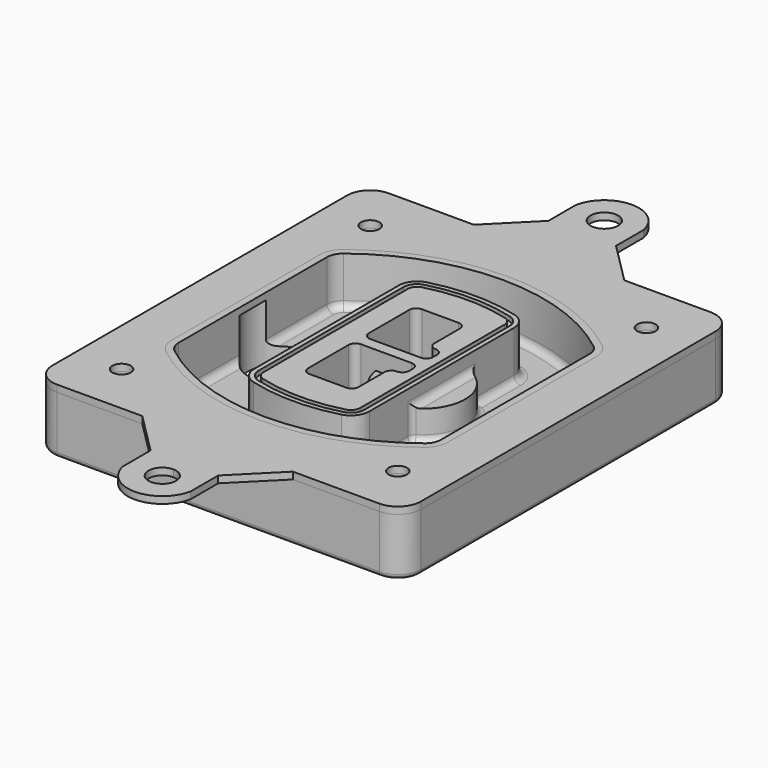
from build123d import *

# Parameters (mm, degrees)
F0_R      = 4
F1_DEPTH  = 25
F2_DEPTH  = 3
F3_DEPTH  = 18
F5_DEPTH  = 21
F6_DEPTH  = 2
F8_DEPTH  = 20
F9_DEPTH  = 16
F10_DEPTH = 25
F7_R      = 6
F7_R_2    = 4
F11_DEPTH = 6
F13_DEPTH = 9
F14_R     = 3
F15_R     = 2
F16_R     = 4
F17_DEPTH = 3


with BuildPart() as f1:
    # F0 (on Top) → F1 (new body)
    with BuildSketch(Plane.XY):
        with BuildLine():
            ThreePointArc((-80, -80), (-77.0710678119, -87.0710678119), (-70, -90))
            Line((-70, -90), (70, -90))
            ThreePointArc((70, -90), (77.0710678119, -87.0710678119), (80, -80))
            Line((80, -80), (80, 80))
            ThreePointArc((80, 80), (77.0710678119, 87.0710678119), (70, 90))
            Line((70, 90), (-70, 90))
            ThreePointArc((-70, 90), (-77.0710678119, 87.0710678119), (-80, 80))
            Line((-80, 80), (-80, -80))
        make_face()
        with Locations((-60, -67.5)):
            Circle(F0_R, mode=Mode.SUBTRACT)
        with Locations((60, -67.5)):
            Circle(F0_R, mode=Mode.SUBTRACT)
        with Locations((-60, 67.5)):
            Circle(F0_R, mode=Mode.SUBTRACT)
        with BuildLine():
            ThreePointArc((-64, 40.2934422872), (-62.5820384798, 46.4328484224), (-58.6153846154, 51.3286200352))
            ThreePointArc((-58.6153846154, 51.3286200352), (0, 71.5), (58.6153846154, 51.3286200352))
            ThreePointArc((58.6153846154, 51.3286200352), (62.5820384798, 46.4328484224), (64, 40.2934422872))
            Line((64, 40.2934422872), (64, -40.2934422872))
            ThreePointArc((64, -40.2934422872), (62.5820384798, -46.4328484224), (58.6153846154, -51.3286200352))
            ThreePointArc((58.6153846154, -51.3286200352), (0, -71.5), (-58.6153846154, -51.3286200352))
            ThreePointArc((-58.6153846154, -51.3286200352), (-62.5820384798, -46.4328484224), (-64, -40.2934422872))
            Line((-64, -40.2934422872), (-64, 40.2934422872))
        make_face(mode=Mode.SUBTRACT)
        with Locations((60, 67.5)):
            Circle(F0_R, mode=Mode.SUBTRACT)
        with BuildLine():
            ThreePointArc((58.6153846154, 51.3286200352), (0, 71.5), (-58.6153846154, 51.3286200352))
            ThreePointArc((-58.6153846154, 51.3286200352), (-62.5820384798, 46.4328484224), (-64, 40.2934422872))
            Line((-64, 40.2934422872), (-64, -40.2934422872))
            ThreePointArc((-64, -40.2934422872), (-62.5820384798, -46.4328484224), (-58.6153846154, -51.3286200352))
            ThreePointArc((-58.6153846154, -51.3286200352), (0, -71.5), (58.6153846154, -51.3286200352))
            ThreePointArc((58.6153846154, -51.3286200352), (62.5820384798, -46.4328484224), (64, -40.2934422872))
            Line((64, -40.2934422872), (64, 40.2934422872))
            ThreePointArc((64, 40.2934422872), (62.5820384798, 46.4328484224), (58.6153846154, 51.3286200352))
        make_face()
        with BuildLine():
            Line((-60, -40.2934422872), (-60, 40.2934422872))
            ThreePointArc((-60, 40.2934422872), (-58.9871703427, 44.6787323838), (-56.1538461538, 48.1757121072))
            ThreePointArc((-56.1538461538, 48.1757121072), (0, 67.5), (56.1538461538, 48.1757121072))
            ThreePointArc((56.1538461538, 48.1757121072), (58.9871703427, 44.6787323838), (60, 40.2934422872))
            Line((60, 40.2934422872), (60, -40.2934422872))
            ThreePointArc((60, -40.2934422872), (58.9871703427, -44.6787323838), (56.1538461538, -48.1757121072))
            ThreePointArc((56.1538461538, -48.1757121072), (0, -67.5), (-56.1538461538, -48.1757121072))
            ThreePointArc((-56.1538461538, -48.1757121072), (-58.9871703427, -44.6787323838), (-60, -40.2934422872))
        make_face(mode=Mode.SUBTRACT)
        with BuildLine():
            ThreePointArc((-56.1538461538, 48.1757121072), (-58.9871703427, 44.6787323838), (-60, 40.2934422872))
            Line((-60, 40.2934422872), (-60, -40.2934422872))
            ThreePointArc((-60, -40.2934422872), (-58.9871703427, -44.6787323838), (-56.1538461538, -48.1757121072))
            ThreePointArc((-56.1538461538, -48.1757121072), (0, -67.5), (56.1538461538, -48.1757121072))
            ThreePointArc((56.1538461538, -48.1757121072), (58.9871703427, -44.6787323838), (60, -40.2934422872))
            Line((60, -40.2934422872), (60, 40.2934422872))
            ThreePointArc((60, 40.2934422872), (58.9871703427, 44.6787323838), (56.1538461538, 48.1757121072))
            ThreePointArc((56.1538461538, 48.1757121072), (0, 67.5), (-56.1538461538, 48.1757121072))
        make_face()
        with BuildLine():
            ThreePointArc((54.3076923077, 45.8110311612), (56.2910192399, 43.3631453548), (57, 40.2934422872))
            Line((57, 40.2934422872), (57, -40.2934422872))
            ThreePointArc((57, -40.2934422872), (56.2910192399, -43.3631453548), (54.3076923077, -45.8110311612))
            ThreePointArc((54.3076923077, -45.8110311612), (0, -64.5), (-54.3076923077, -45.8110311612))
            ThreePointArc((-54.3076923077, -45.8110311612), (-56.2910192399, -43.3631453548), (-57, -40.2934422872))
            Line((-57, -40.2934422872), (-57, 40.2934422872))
            ThreePointArc((-57, 40.2934422872), (-56.2910192399, 43.3631453548), (-54.3076923077, 45.8110311612))
            ThreePointArc((-54.3076923077, 45.8110311612), (0, 64.5), (54.3076923077, 45.8110311612))
        make_face(mode=Mode.SUBTRACT)
        with BuildLine():
            Line((57, -40.2934422872), (57, 40.2934422872))
            ThreePointArc((57, 40.2934422872), (56.2910192399, 43.3631453548), (54.3076923077, 45.8110311612))
            ThreePointArc((54.3076923077, 45.8110311612), (0, 64.5), (-54.3076923077, 45.8110311612))
            ThreePointArc((-54.3076923077, 45.8110311612), (-56.2910192399, 43.3631453548), (-57, 40.2934422872))
            Line((-57, 40.2934422872), (-57, -40.2934422872))
            ThreePointArc((-57, -40.2934422872), (-56.2910192399, -43.3631453548), (-54.3076923077, -45.8110311612))
            ThreePointArc((-54.3076923077, -45.8110311612), (0, -64.5), (54.3076923077, -45.8110311612))
            ThreePointArc((54.3076923077, -45.8110311612), (56.2910192399, -43.3631453548), (57, -40.2934422872))
        make_face()
    extrude(amount=-F1_DEPTH)

    # F0 (on Top) → F2 (join)
    with BuildSketch(Plane.XY):
        with BuildLine():
            ThreePointArc((-56.1538461538, 48.1757121072), (-58.9871703427, 44.6787323838), (-60, 40.2934422872))
            Line((-60, 40.2934422872), (-60, -40.2934422872))
            ThreePointArc((-60, -40.2934422872), (-58.9871703427, -44.6787323838), (-56.1538461538, -48.1757121072))
            ThreePointArc((-56.1538461538, -48.1757121072), (0, -67.5), (56.1538461538, -48.1757121072))
            ThreePointArc((56.1538461538, -48.1757121072), (58.9871703427, -44.6787323838), (60, -40.2934422872))
            Line((60, -40.2934422872), (60, 40.2934422872))
            ThreePointArc((60, 40.2934422872), (58.9871703427, 44.6787323838), (56.1538461538, 48.1757121072))
            ThreePointArc((56.1538461538, 48.1757121072), (0, 67.5), (-56.1538461538, 48.1757121072))
        make_face()
        with BuildLine():
            ThreePointArc((54.3076923077, 45.8110311612), (56.2910192399, 43.3631453548), (57, 40.2934422872))
            Line((57, 40.2934422872), (57, -40.2934422872))
            ThreePointArc((57, -40.2934422872), (56.2910192399, -43.3631453548), (54.3076923077, -45.8110311612))
            ThreePointArc((54.3076923077, -45.8110311612), (0, -64.5), (-54.3076923077, -45.8110311612))
            ThreePointArc((-54.3076923077, -45.8110311612), (-56.2910192399, -43.3631453548), (-57, -40.2934422872))
            Line((-57, -40.2934422872), (-57, 40.2934422872))
            ThreePointArc((-57, 40.2934422872), (-56.2910192399, 43.3631453548), (-54.3076923077, 45.8110311612))
            ThreePointArc((-54.3076923077, 45.8110311612), (0, 64.5), (54.3076923077, 45.8110311612))
        make_face(mode=Mode.SUBTRACT)
    extrude(amount=F2_DEPTH)

    # F0 (on Top) → F3 (cut)
    with BuildSketch(Plane.XY):
        with BuildLine():
            Line((57, -40.2934422872), (57, 40.2934422872))
            ThreePointArc((57, 40.2934422872), (56.2910192399, 43.3631453548), (54.3076923077, 45.8110311612))
            ThreePointArc((54.3076923077, 45.8110311612), (0, 64.5), (-54.3076923077, 45.8110311612))
            ThreePointArc((-54.3076923077, 45.8110311612), (-56.2910192399, 43.3631453548), (-57, 40.2934422872))
            Line((-57, 40.2934422872), (-57, -40.2934422872))
            ThreePointArc((-57, -40.2934422872), (-56.2910192399, -43.3631453548), (-54.3076923077, -45.8110311612))
            ThreePointArc((-54.3076923077, -45.8110311612), (0, -64.5), (54.3076923077, -45.8110311612))
            ThreePointArc((54.3076923077, -45.8110311612), (56.2910192399, -43.3631453548), (57, -40.2934422872))
        make_face()
    extrude(amount=-F3_DEPTH, mode=Mode.SUBTRACT)

    # F4 (on face) → F5 (join, through all)
    with BuildSketch(Plane.XY.offset(3)):
        with BuildLine():
            ThreePointArc((-25, -39.2465276821), (-23.3511545998, -44.1109737193), (-19.0842911877, -46.9702398883))
            ThreePointArc((-19.0842911877, -46.9702398883), (0, -49.5), (19.0842911877, -46.9702398883))
            ThreePointArc((19.0842911877, -46.9702398883), (23.3511545998, -44.1109737193), (25, -39.2465276821))
            Line((25, -39.2465276821), (25, 39.2465276821))
            ThreePointArc((25, 39.2465276821), (23.3511545998, 44.1109737193), (19.0842911877, 46.9702398883))
            ThreePointArc((19.0842911877, 46.9702398883), (0, 49.5), (-19.0842911877, 46.9702398883))
            ThreePointArc((-19.0842911877, 46.9702398883), (-23.3511545998, 44.1109737193), (-25, 39.2465276821))
            Line((-25, 39.2465276821), (-25, -39.2465276821))
        make_face()
        with BuildLine():
            ThreePointArc((18.5632183908, 45.0393118368), (21.7633659499, 42.89486221), (23, 39.2465276821))
            Line((23, 39.2465276821), (23, -39.2465276821))
            ThreePointArc((23, -39.2465276821), (21.7633659499, -42.89486221), (18.5632183908, -45.0393118368))
            ThreePointArc((18.5632183908, -45.0393118368), (0, -47.5), (-18.5632183908, -45.0393118368))
            ThreePointArc((-18.5632183908, -45.0393118368), (-21.7633659499, -42.89486221), (-23, -39.2465276821))
            Line((-23, -39.2465276821), (-23, 39.2465276821))
            ThreePointArc((-23, 39.2465276821), (-21.7633659499, 42.89486221), (-18.5632183908, 45.0393118368))
            ThreePointArc((-18.5632183908, 45.0393118368), (0, 47.5), (18.5632183908, 45.0393118368))
        make_face(mode=Mode.SUBTRACT)
        with BuildLine():
            Line((23, -39.2465276821), (23, 39.2465276821))
            ThreePointArc((23, 39.2465276821), (21.7633659499, 42.89486221), (18.5632183908, 45.0393118368))
            ThreePointArc((18.5632183908, 45.0393118368), (0, 47.5), (-18.5632183908, 45.0393118368))
            ThreePointArc((-18.5632183908, 45.0393118368), (-21.7633659499, 42.89486221), (-23, 39.2465276821))
            Line((-23, 39.2465276821), (-23, -39.2465276821))
            ThreePointArc((-23, -39.2465276821), (-21.7633659499, -42.89486221), (-18.5632183908, -45.0393118368))
            ThreePointArc((-18.5632183908, -45.0393118368), (0, -47.5), (18.5632183908, -45.0393118368))
            ThreePointArc((18.5632183908, -45.0393118368), (21.7633659499, -42.89486221), (23, -39.2465276821))
        make_face()
        with BuildLine():
            ThreePointArc((18.0421455939, 43.1083837852), (20.1755772999, 41.6787507007), (21, 39.2465276821))
            Line((21, 39.2465276821), (21, -39.2465276821))
            ThreePointArc((21, -39.2465276821), (20.1755772999, -41.6787507007), (18.0421455939, -43.1083837852))
            ThreePointArc((18.0421455939, -43.1083837852), (0, -45.5), (-18.0421455939, -43.1083837852))
            ThreePointArc((-18.0421455939, -43.1083837852), (-20.1755772999, -41.6787507007), (-21, -39.2465276821))
            Line((-21, -39.2465276821), (-21, 39.2465276821))
            ThreePointArc((-21, 39.2465276821), (-20.1755772999, 41.6787507007), (-18.0421455939, 43.1083837852))
            ThreePointArc((-18.0421455939, 43.1083837852), (0, 45.5), (18.0421455939, 43.1083837852))
        make_face(mode=Mode.SUBTRACT)
        with BuildLine():
            Line((21, -39.2465276821), (21, 39.2465276821))
            ThreePointArc((21, 39.2465276821), (20.1755772999, 41.6787507007), (18.0421455939, 43.1083837852))
            ThreePointArc((18.0421455939, 43.1083837852), (0, 45.5), (-18.0421455939, 43.1083837852))
            ThreePointArc((-18.0421455939, 43.1083837852), (-20.1755772999, 41.6787507007), (-21, 39.2465276821))
            Line((-21, 39.2465276821), (-21, -39.2465276821))
            ThreePointArc((-21, -39.2465276821), (-20.1755772999, -41.6787507007), (-18.0421455939, -43.1083837852))
            ThreePointArc((-18.0421455939, -43.1083837852), (0, -45.5), (18.0421455939, -43.1083837852))
            ThreePointArc((18.0421455939, -43.1083837852), (20.1755772999, -41.6787507007), (21, -39.2465276821))
        make_face()
        with BuildLine():
            Line((-8, -2.5), (14, -2.5))
            ThreePointArc((14, -2.5), (16.1213203436, -3.3786796564), (17, -5.5))
            Line((17, -5.5), (17, -7.5))
            ThreePointArc((17, -7.5), (16.1213203436, -9.6213203436), (14, -10.5))
            ThreePointArc((14, -10.5), (11.8786796564, -11.3786796564), (11, -13.5))
            Line((11, -13.5), (11, -27.5))
            ThreePointArc((11, -27.5), (10.1213203436, -29.6213203436), (8, -30.5))
            Line((8, -30.5), (-8, -30.5))
            ThreePointArc((-8, -30.5), (-10.1213203436, -29.6213203436), (-11, -27.5))
            Line((-11, -27.5), (-11, -5.5))
            ThreePointArc((-11, -5.5), (-10.1213203436, -3.3786796564), (-8, -2.5))
        make_face(mode=Mode.SUBTRACT)
        with BuildLine():
            ThreePointArc((-8, 2.5), (-10.1213203436, 3.3786796564), (-11, 5.5))
            Line((-11, 5.5), (-11, 27.5))
            ThreePointArc((-11, 27.5), (-10.1213203436, 29.6213203436), (-8, 30.5))
            Line((-8, 30.5), (8, 30.5))
            ThreePointArc((8, 30.5), (10.1213203436, 29.6213203436), (11, 27.5))
            Line((11, 27.5), (11, 13.5))
            ThreePointArc((11, 13.5), (11.8786796564, 11.3786796564), (14, 10.5))
            ThreePointArc((14, 10.5), (16.1213203436, 9.6213203436), (17, 7.5))
            Line((17, 7.5), (17, 5.5))
            ThreePointArc((17, 5.5), (16.1213203436, 3.3786796564), (14, 2.5))
            Line((14, 2.5), (-8, 2.5))
        make_face(mode=Mode.SUBTRACT)
    extrude(amount=-F5_DEPTH)

    # F4 (on face) → F6 (cut)
    with BuildSketch(Plane.XY.offset(3)):
        with BuildLine():
            Line((23, -39.2465276821), (23, 39.2465276821))
            ThreePointArc((23, 39.2465276821), (21.7633659499, 42.89486221), (18.5632183908, 45.0393118368))
            ThreePointArc((18.5632183908, 45.0393118368), (0, 47.5), (-18.5632183908, 45.0393118368))
            ThreePointArc((-18.5632183908, 45.0393118368), (-21.7633659499, 42.89486221), (-23, 39.2465276821))
            Line((-23, 39.2465276821), (-23, -39.2465276821))
            ThreePointArc((-23, -39.2465276821), (-21.7633659499, -42.89486221), (-18.5632183908, -45.0393118368))
            ThreePointArc((-18.5632183908, -45.0393118368), (0, -47.5), (18.5632183908, -45.0393118368))
            ThreePointArc((18.5632183908, -45.0393118368), (21.7633659499, -42.89486221), (23, -39.2465276821))
        make_face()
        with BuildLine():
            ThreePointArc((18.0421455939, 43.1083837852), (20.1755772999, 41.6787507007), (21, 39.2465276821))
            Line((21, 39.2465276821), (21, -39.2465276821))
            ThreePointArc((21, -39.2465276821), (20.1755772999, -41.6787507007), (18.0421455939, -43.1083837852))
            ThreePointArc((18.0421455939, -43.1083837852), (0, -45.5), (-18.0421455939, -43.1083837852))
            ThreePointArc((-18.0421455939, -43.1083837852), (-20.1755772999, -41.6787507007), (-21, -39.2465276821))
            Line((-21, -39.2465276821), (-21, 39.2465276821))
            ThreePointArc((-21, 39.2465276821), (-20.1755772999, 41.6787507007), (-18.0421455939, 43.1083837852))
            ThreePointArc((-18.0421455939, 43.1083837852), (0, 45.5), (18.0421455939, 43.1083837852))
        make_face(mode=Mode.SUBTRACT)
    extrude(amount=-F6_DEPTH, mode=Mode.SUBTRACT)

    # F7 (on face) → F8 (join)
    with BuildSketch(Plane(origin=(0, 0, -25), x_dir=(1, 0, 0), z_dir=(0, 0, -1))):
        with BuildLine():
            ThreePointArc((3.28842436, 0), (16.7567035675, 13.4682792075), (30.224982775, 0))
            Line((30.224982775, 0), (35.224982775, 0))
            ThreePointArc((35.224982775, 0), (16.7567035675, 18.4682792075), (-1.71157564, 0))
            Line((-1.71157564, 0), (3.28842436, 0))
        make_face()
        with BuildLine():
            Line((3.28842436, 0), (30.224982775, 0))
            ThreePointArc((30.224982775, 0), (16.7567035675, 13.4682792075), (3.28842436, 0))
        make_face()
        with BuildLine():
            ThreePointArc((3.28842436, 0), (16.7567035675, -13.4682792075), (30.224982775, 0))
            Line((30.224982775, 0), (3.28842436, 0))
        make_face()
        with BuildLine():
            Line((35.224982775, 0), (30.224982775, 0))
            ThreePointArc((30.224982775, 0), (16.7567035675, -13.4682792075), (3.28842436, 0))
            Line((3.28842436, 0), (-1.71157564, 0))
            ThreePointArc((-1.71157564, 0), (16.7567035675, -18.4682792075), (35.224982775, 0))
        make_face()
    extrude(amount=-F8_DEPTH)

    # F7 (on face) → F9 (cut)
    with BuildSketch(Plane(origin=(0, 0, -25), x_dir=(1, 0, 0), z_dir=(0, 0, -1))):
        with BuildLine():
            Line((3.28842436, 0), (30.224982775, 0))
            ThreePointArc((30.224982775, 0), (16.7567035675, 13.4682792075), (3.28842436, 0))
        make_face()
        with BuildLine():
            ThreePointArc((3.28842436, 0), (16.7567035675, -13.4682792075), (30.224982775, 0))
            Line((30.224982775, 0), (3.28842436, 0))
        make_face()
    extrude(amount=-F9_DEPTH, mode=Mode.SUBTRACT)

    # F7 (on face) → F10 (cut)
    with BuildSketch(Plane(origin=(0, 0, -25), x_dir=(1, 0, 0), z_dir=(0, 0, -1))):
        with BuildLine():
            Line((-59.0318229325, 0), (-32.0952645175, 0))
            ThreePointArc((-32.0952645175, 0), (-45.563543725, 13.4682792075), (-59.0318229325, 0))
        make_face()
        with BuildLine():
            ThreePointArc((-59.0318229325, 0), (-45.563543725, -13.4682792075), (-32.0952645175, 0))
            Line((-32.0952645175, 0), (-59.0318229325, 0))
        make_face()
    extrude(amount=-F10_DEPTH, mode=Mode.SUBTRACT)

    # F7 (on face) → F11 (cut)
    with BuildSketch(Plane(origin=(0, 0, -25), x_dir=(1, 0, 0), z_dir=(0, 0, -1))):
        with Locations((60, -67.5)):
            Circle(F7_R)
        with Locations((60, -67.5)):
            Circle(F7_R_2, mode=Mode.SUBTRACT)
        with Locations((60, -67.5)):
            Circle(F7_R)
        with Locations((60, -67.5)):
            Circle(F7_R_2, mode=Mode.SUBTRACT)
        with Locations((-60, -67.5)):
            Circle(F7_R)
        with Locations((-60, -67.5)):
            Circle(F7_R_2, mode=Mode.SUBTRACT)
        with Locations((-60, -67.5)):
            Circle(F7_R)
        with Locations((-60, -67.5)):
            Circle(F7_R_2, mode=Mode.SUBTRACT)
        with Locations((-60, 67.5)):
            Circle(F7_R)
        with Locations((-60, 67.5)):
            Circle(F7_R_2, mode=Mode.SUBTRACT)
        with Locations((-60, 67.5)):
            Circle(F7_R)
        with Locations((-60, 67.5)):
            Circle(F7_R_2, mode=Mode.SUBTRACT)
        with Locations((60, 67.5)):
            Circle(F7_R)
        with Locations((60, 67.5)):
            Circle(F7_R_2, mode=Mode.SUBTRACT)
        with Locations((60, 67.5)):
            Circle(F7_R)
        with Locations((60, 67.5)):
            Circle(F7_R_2, mode=Mode.SUBTRACT)
    extrude(amount=-F11_DEPTH, mode=Mode.SUBTRACT)

    # F12 (on face) → F13 (cut, through all)
    with BuildSketch(Plane(origin=(0, 0, -9), x_dir=(1, 0, 0), z_dir=(0, 0, -1))):
        with BuildLine():
            Line((11, 13.5), (11, 17.5481537753))
            ThreePointArc((11, 17.5481537753), (2.5696536419, 11.8239143813), (-1.5415842455, 2.5))
            Line((-1.5415842455, 2.5), (3.5224848595, 2.5))
            ThreePointArc((3.5224848595, 2.5), (6.1857188154, 8.3455872281), (11.2536447004, 12.2927168648))
            ThreePointArc((11.2536447004, 12.2927168648), (11.0640958889, 12.8831798879), (11, 13.5))
        make_face()
        with BuildLine():
            ThreePointArc((11.2536447004, -12.2927168648), (6.1857188154, -8.3455872281), (3.5224848595, -2.5))
            Line((3.5224848595, -2.5), (-1.5415842455, -2.5))
            ThreePointArc((-1.5415842455, -2.5), (2.5696536419, -11.8239143813), (11, -17.5481537753))
            Line((11, -17.5481537753), (11, -13.5))
            ThreePointArc((11, -13.5), (11.0640958889, -12.8831798879), (11.2536447004, -12.2927168648))
        make_face()
        with BuildLine():
            ThreePointArc((11.2536447004, 12.2927168648), (6.1857188154, 8.3455872281), (3.5224848595, 2.5))
            Line((3.5224848595, 2.5), (14, 2.5))
            ThreePointArc((14, 2.5), (16.1213203436, 3.3786796564), (17, 5.5))
            Line((17, 5.5), (17, 7.5))
            ThreePointArc((17, 7.5), (16.1213203436, 9.6213203436), (14, 10.5))
            ThreePointArc((14, 10.5), (12.3601599782, 10.9878446101), (11.2536447004, 12.2927168648))
        make_face()
        with BuildLine():
            Line((14, -2.5), (3.5224848595, -2.5))
            ThreePointArc((3.5224848595, -2.5), (6.1857188154, -8.3455872281), (11.2536447004, -12.2927168648))
            ThreePointArc((11.2536447004, -12.2927168648), (12.3601599782, -10.9878446101), (14, -10.5))
            ThreePointArc((14, -10.5), (16.1213203436, -9.6213203436), (17, -7.5))
            Line((17, -7.5), (17, -5.5))
            ThreePointArc((17, -5.5), (16.1213203436, -3.3786796564), (14, -2.5))
        make_face()
    extrude(amount=F13_DEPTH, mode=Mode.SUBTRACT)

    # F14
    f14_edges = [f1.edges().sort_by_distance(p)[0] for p in [
        (-57, -23.703476, -18),
        (-57, 23.703476, -18),
        (25, 0, -5),
        (25, 16.526506, -11.5),
        (25, -16.526506, -11.5),
        (25, -27.886517, -18),
        (35.224983, 0, -18),
    ]]
    fillet(f14_edges, radius=F14_R)

    # F15
    f15_edges = [f1.edges().sort_by_distance(p)[0] for p in [
        (0, -90, -25),
    ]]
    fillet(f15_edges, radius=F15_R)


with BuildPart() as f17:
    # F16 (on Top) → F17 (new body, through all)
    with BuildSketch(Plane.XY):
        with BuildLine():
            Line((-80, 0), (-80, -80))
            ThreePointArc((-80, -80), (-77.0710678119, -87.0710678119), (-70, -90))
            Line((-70, -90), (-33, -90))
            Line((-33, -90), (32.3938769134, -90))
            Line((32.3938769134, -90), (70, -90))
            ThreePointArc((70, -90), (77.0710678119, -87.0710678119), (80, -80))
            Line((80, -80), (80, 0))
            Line((80, 0), (60, 0))
            Line((60, 0), (60, -40.2934422872))
            ThreePointArc((60, -40.2934422872), (58.9871703427, -44.6787323838), (56.1538461538, -48.1757121072))
            ThreePointArc((56.1538461538, -48.1757121072), (0, -67.5), (-56.1538461538, -48.1757121072))
            ThreePointArc((-56.1538461538, -48.1757121072), (-58.9871703427, -44.6787323838), (-60, -40.2934422872))
            Line((-60, -40.2934422872), (-60, 0))
            Line((-60, 0), (-80, 0))
        make_face()
        with Locations((-60, -67.5)):
            Circle(F16_R, mode=Mode.SUBTRACT)
        with Locations((60, -67.5)):
            Circle(F16_R, mode=Mode.SUBTRACT)
        with BuildLine():
            Line((-80, 80), (-80, 0))
            Line((-80, 0), (-60, 0))
            Line((-60, 0), (-60, 40.2934422872))
            ThreePointArc((-60, 40.2934422872), (-58.9871703427, 44.6787323838), (-56.1538461538, 48.1757121072))
            ThreePointArc((-56.1538461538, 48.1757121072), (0, 67.5), (56.1538461538, 48.1757121072))
            ThreePointArc((56.1538461538, 48.1757121072), (58.9871703427, 44.6787323838), (60, 40.2934422872))
            Line((60, 40.2934422872), (60, 0))
            Line((60, 0), (80, 0))
            Line((80, 0), (80, 80))
            ThreePointArc((80, 80), (77.0710678119, 87.0710678119), (70, 90))
            Line((70, 90), (32.3938769134, 90))
            Line((32.3938769134, 90), (0, 90))
            Line((0, 90), (-33, 90))
            Line((-33, 90), (-70, 90))
            ThreePointArc((-70, 90), (-77.0710678119, 87.0710678119), (-80, 80))
        make_face()
        with Locations((-60, 67.5)):
            Circle(F16_R, mode=Mode.SUBTRACT)
        with Locations((60, 67.5)):
            Circle(F16_R, mode=Mode.SUBTRACT)
        with BuildLine():
            Line((32.3938769134, -90), (-33, -90))
            Line((-33, -90), (-15, -108))
            Line((-15, -108), (-15, -123))
            ThreePointArc((-15, -123), (-0.3030615433, -135), (14.3938769134, -123))
            Line((14.3938769134, -123), (14.3938769134, -108))
            Line((14.3938769134, -108), (32.3938769134, -90))
        make_face()
        with BuildLine():
            ThreePointArc((-0.3030615433, -114), (3.9395791438, -115.7573593129), (5.6969384567, -120))
            ThreePointArc((5.6969384567, -120), (-4.5457022304, -124.2426406871), (-0.3030615433, -114))
        make_face(mode=Mode.SUBTRACT)
        with BuildLine():
            Line((-15, 108), (-33, 90))
            Line((-33, 90), (0, 90))
            Line((0, 90), (32.3938769134, 90))
            Line((32.3938769134, 90), (14.3938769134, 108))
            Line((14.3938769134, 108), (14.3938769134, 123))
            ThreePointArc((14.3938769134, 123), (-0.3030615433, 135), (-15, 123))
            Line((-15, 123), (-15, 108))
        make_face()
        with BuildLine():
            ThreePointArc((5.6969384567, 120), (3.9609538939, 115.7788422972), (-0.2424523272, 114.0003061309))
            ThreePointArc((-0.2424523272, 114.0003061309), (-4.5670769805, 124.2211577028), (5.6969384567, 120))
        make_face(mode=Mode.SUBTRACT)
    extrude(amount=F17_DEPTH)


solid = Compound([f1.part, f17.part])
